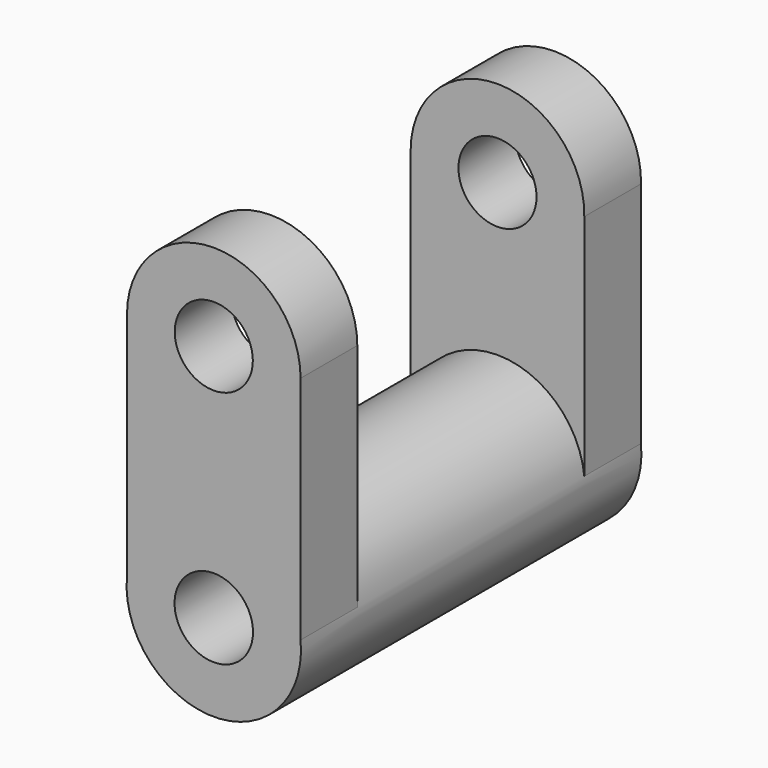
from build123d import *

# Parameters (mm, degrees)
F0_R      = 31.236454
F2_DEPTH  = 25.4
F3_DEPTH  = 25.4
F4_DEPTH  = 50.8
F5_R      = 14.047882
F6_DEPTH  = 76.201
F8_W      = 31.083973
F8_H      = 25.4
F10_W     = 31.09123
F10_H     = 25.4
F12_R     = 13.98371
F13_DEPTH = 152.401


with BuildPart() as f2:
    # F0 (on Front) → F2 (new body)
    with BuildSketch(Plane.XZ):
        Circle(F0_R)
    extrude(amount=F2_DEPTH)

    # F1 (on face) → F3 (join)
    with BuildSketch(Plane.XZ):
        with BuildLine():
            Line((0, 85.611142), (0, 31.236454))
            ThreePointArc((0, 31.236454), (20.969327, 23.151746), (31.083973, 3.082637))
            Line((31.083973, 3.082637), (31.083973, 85.611142))
            Line((31.083973, 85.611142), (0, 85.611142))
        make_face()
        with BuildLine():
            Line((-31.09123, 85.611142), (-31.09123, 3.008564))
            ThreePointArc((-31.09123, 3.008564), (-20.996895, 23.126747), (0, 31.236454))
            Line((0, 31.236454), (0, 85.611142))
            Line((0, 85.611142), (-31.09123, 85.611142))
        make_face()
    extrude(amount=F3_DEPTH)

    # F0 (on Front) → F4 (join)
    with BuildSketch(Plane.XZ):
        Circle(F0_R)
    extrude(amount=-F4_DEPTH)

    # F5 (on face) → F6 (cut, through all)
    with BuildSketch(Plane.XZ.offset(25.4)):
        Circle(F5_R)
    extrude(amount=-F6_DEPTH, mode=Mode.SUBTRACT)

    # F7: F2 across face


with BuildPart() as f2_1:
    add(f2.part)
    add(f2.part.mirror(Plane(origin=(0, 50.8, 0), x_dir=(1, 0, 0), z_dir=(0, 1, 0))))

    # F8 (on face) → F9 (revolve)
    with BuildSketch(Plane.XY.offset(85.611142)):
        with Locations((15.541987, -12.7)):
            Rectangle(F8_W, F8_H)
    revolve(axis=Axis((0, -12.7, 85.611142), (0, -1, 0)))

    # F10 (on face) → F11 (revolve)
    with BuildSketch(Plane.XY.offset(85.611142)):
        with Locations((-15.545615, 114.3)):
            Rectangle(F10_W, F10_H)
    revolve(axis=Axis((0, 114.3, 85.611142), (0, 1, 0)))

    # F12 (on face) → F13 (cut, through all)
    with BuildSketch(Plane.XZ.offset(25.4)):
        with Locations((0, 85.611142)):
            Circle(F12_R)
    extrude(amount=-F13_DEPTH, mode=Mode.SUBTRACT)


solid = f2_1.part
